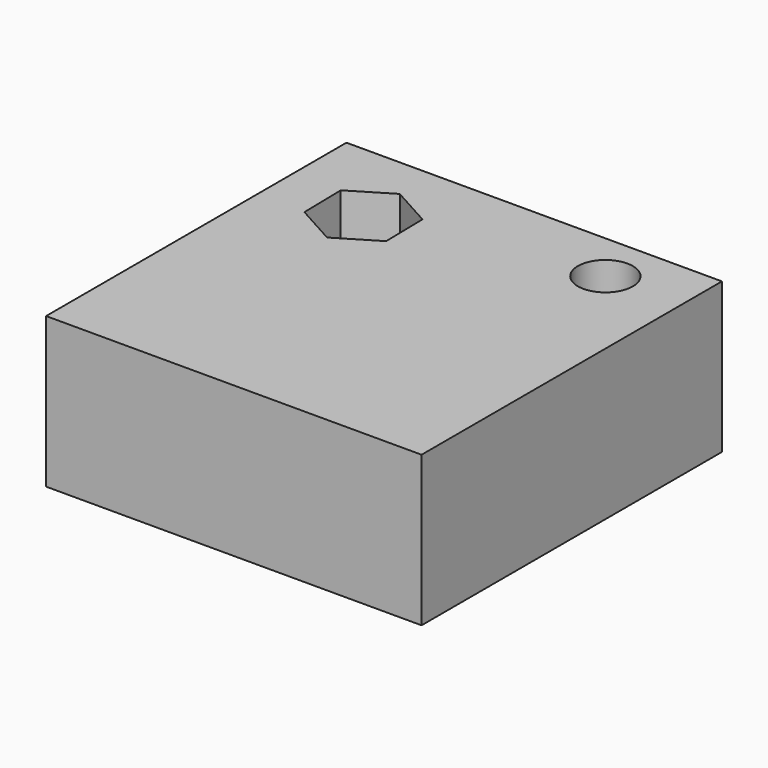
from build123d import *

# Parameters (mm, degrees)
F0_W     = 25
F0_H     = 25
F0_R     = 1.829659
F1_DEPTH = 10


with BuildPart() as f1:
    # F0 (on Top) → F1 (new body)
    with BuildSketch(Plane.XY):
        Rectangle(F0_W, F0_H)
        Polygon((-4.01906, 8.226155), (-3.96133, 5.12945), (-6.61429, 3.531102), (-9.32498, 5.029459), (-9.38271, 8.126164), (-6.72975, 9.724512), align=None, mode=Mode.SUBTRACT)
        with Locations((7.404331, 9.170712)):
            Circle(F0_R, mode=Mode.SUBTRACT)
    extrude(amount=F1_DEPTH)


solid = f1.part
